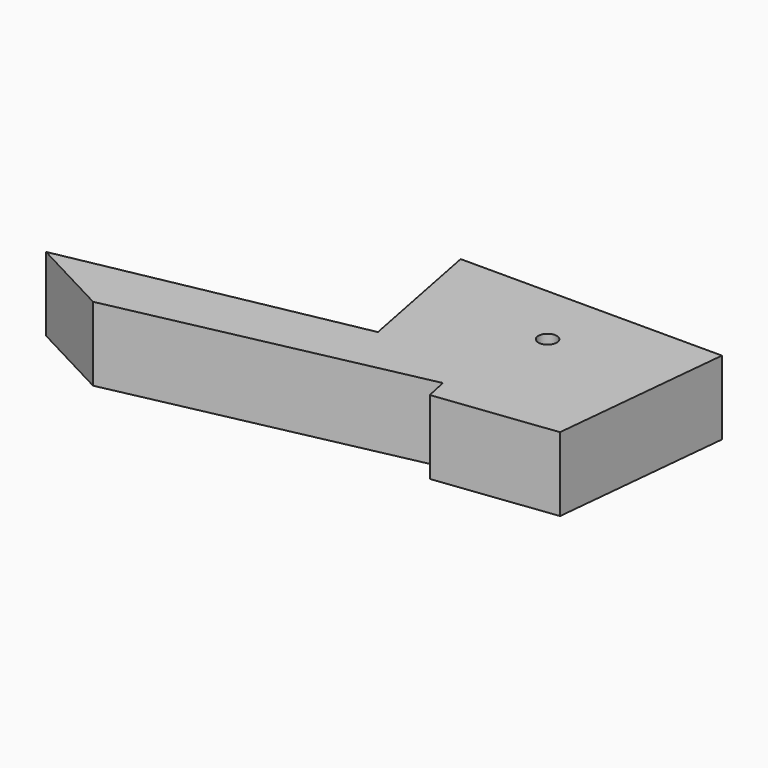
from build123d import *

# Parameters (mm, degrees)
F1_DEPTH = 12.7
F3_D     = 6.35


with BuildPart() as f1:
    # F0 (on Top) → F1 (new body, symmetric)
    with BuildSketch(Plane.XY):
        Polygon((-143.996646, -34.452625), (-116.034389, -49.219768), (-13.202839, -27.430184), (-11.582092, -35.078969), (29.229511, -30.106099), (35.34589, 31.822197), (-54.488368, 31.822197), (-45.313805, -15.197435), align=None)
    extrude(amount=F1_DEPTH, both=True)

    # F3 (through all)
    with Locations(Plane.XY.offset(12.7)):
        with Locations((-7.143989, 10.018632)):
            Hole(F3_D / 2)


solid = f1.part
